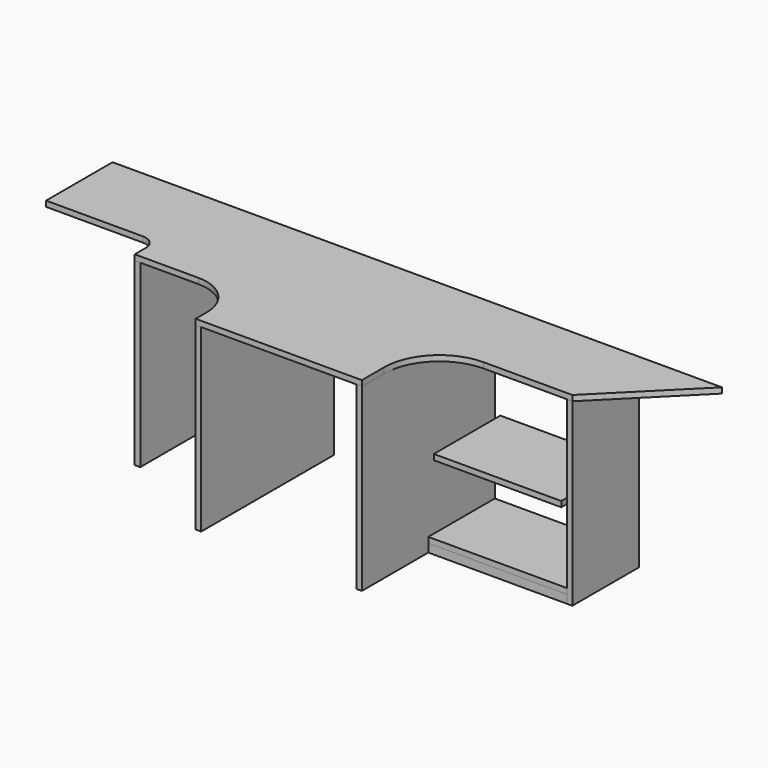
from build123d import *

# Parameters (mm, degrees)
F1_W      = 20
F1_H      = 650
F2_DEPTH  = 600
F3_W      = 20
F3_H      = 650
F4_DEPTH  = 400
F5_W      = 20
F5_H      = 650
F6_DEPTH  = 300
F8_DEPTH  = 20
F9_W      = 500
F9_H      = 30
F10_DEPTH = 20
F11_W     = 500
F11_H     = 30
F12_DEPTH = 20
F13_W     = 500
F13_H     = 300
F14_DEPTH = 20
F15_W     = 460
F15_H     = 20
F16_DEPTH = 300


with BuildPart() as f2:
    # F1 (on Front) → F2 (new body)
    with BuildSketch(Plane.XZ):
        with Locations((-310, 325)):
            Rectangle(F1_W, F1_H)
    extrude(amount=F2_DEPTH)


with BuildPart() as f2b:
    # F1 (on Front) → F2, piece 2 (new body)
    with BuildSketch(Plane.XZ):
        with Locations((270, 325)):
            Rectangle(F1_W, F1_H)
    extrude(amount=F2_DEPTH)

    # F11 (on face) → F12 (join)
    with BuildSketch(Plane.XZ.offset(300)):
        with Locations((530, 15)):
            Rectangle(F11_W, F11_H)
    extrude(amount=-F12_DEPTH)


with BuildPart() as f4:
    # F3 (on face) → F4 (new body)
    with BuildSketch(Plane.XZ):
        with Locations((-690, 325)):
            Rectangle(F3_W, F3_H)
    extrude(amount=F4_DEPTH)


with BuildPart() as f6:
    # F5 (on face) → F6 (new body)
    with BuildSketch(Plane.XZ):
        with Locations((790, 325)):
            Rectangle(F5_W, F5_H)
    extrude(amount=F6_DEPTH)


with BuildPart() as f8:
    # F7 (on face) → F8 (new body)
    with BuildSketch(Plane.XY.offset(650)):
        with BuildLine():
            Line((800, -300), (1100, 0))
            Line((1100, 0), (-1100, 0))
            Line((-1100, 0), (-1100, -300))
            Line((-1100, -300), (-750, -300))
            ThreePointArc((-750, -300), (-714.6446609407, -314.6446609407), (-700, -350))
            Line((-700, -350), (-700, -400))
            Line((-700, -400), (-470, -400))
            ThreePointArc((-470, -400), (-363.933982822, -443.933982822), (-320, -550))
            Line((-320, -550), (-320, -600))
            Line((-320, -600), (280, -600))
            Line((280, -600), (280, -500))
            ThreePointArc((280, -500), (338.5786437627, -358.5786437627), (480, -300))
            Line((480, -300), (800, -300))
        make_face()
    extrude(amount=F8_DEPTH)


with BuildPart() as f10:
    # F9 (on Front) → F10 (new body)
    with BuildSketch(Plane.XZ):
        with Locations((530, 15)):
            Rectangle(F9_W, F9_H)
    extrude(amount=F10_DEPTH)


with BuildPart() as f14:
    # F13 (on face) → F14 (new body)
    with BuildSketch(Plane.XY.offset(30)):
        with Locations((530, -150)):
            Rectangle(F13_W, F13_H)
    extrude(amount=F14_DEPTH)


with BuildPart() as f16:
    # F15 (on Front) → F16 (new body)
    with BuildSketch(Plane.XZ):
        with Locations((530, 310)):
            Rectangle(F15_W, F15_H)
    extrude(amount=F16_DEPTH)


solid = Compound([f2.part, f2b.part, f4.part, f6.part, f8.part, f10.part, f14.part, f16.part])
